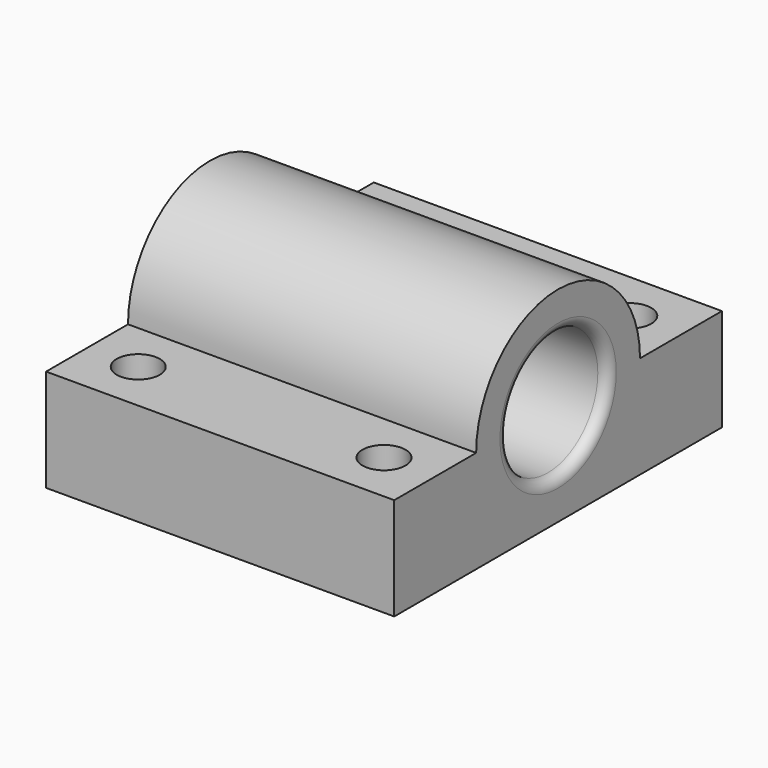
from build123d import *

# Parameters (mm, degrees)
SKETCH_R                 = 3.05
PAD_DEPTH                = 7
PAD_DEPTH_BACK           = 10
SKETCH001_R              = 1.05
POCKET_DEPTH             = 5
FILLET_R                 = 0.5
CLONE002_PLACEMENT_ANGLE = 90


with BuildPart() as part:
    # Sketch → Pad (new body, two sides)
    with BuildSketch(Plane.XZ) as pad_sk:
        with BuildLine():
            Line((10, 0), (10, -5))
            Line((10, -5), (-10, -5))
            Line((-10, -5), (-10, 0))
            Line((-10, 0), (-5, 0))
            ThreePointArc((5, 0), (0, 5), (-5, 0))
            Line((10, 0), (5, 0))
        make_face()
        Circle(SKETCH_R, mode=Mode.SUBTRACT)
    extrude(amount=PAD_DEPTH)
    extrude(pad_sk.sketch, amount=-PAD_DEPTH_BACK)

    # Sketch001 → Pocket (cut)
    with BuildSketch(Plane(origin=(0, 0, -5), x_dir=(1, 0, 0), z_dir=(0, 0, -1))):
        with Locations((-7.5, 4.5)):
            Circle(SKETCH001_R)
        with Locations((-7.5, -7.5)):
            Circle(SKETCH001_R)
        with Locations((7.5, -7.5)):
            Circle(SKETCH001_R)
        with Locations((7.5, 4.5)):
            Circle(SKETCH001_R)
    extrude(amount=-POCKET_DEPTH, mode=Mode.SUBTRACT)

    # Fillet
    fillet_edges = [part.edges().sort_by_distance(p)[0] for p in [
        (-3.05, 10, 0),
        (-3.05, -7, 0),
    ]]
    fillet(fillet_edges, radius=FILLET_R)


with BuildPart() as part_1:
    # Clone002 placement: moved
    add(part.part.moved(Location((1.5, -105, 11))).rotate(Axis((1.5, -105, 11), (0, 0, 1)), CLONE002_PLACEMENT_ANGLE))


solid = part_1.part
